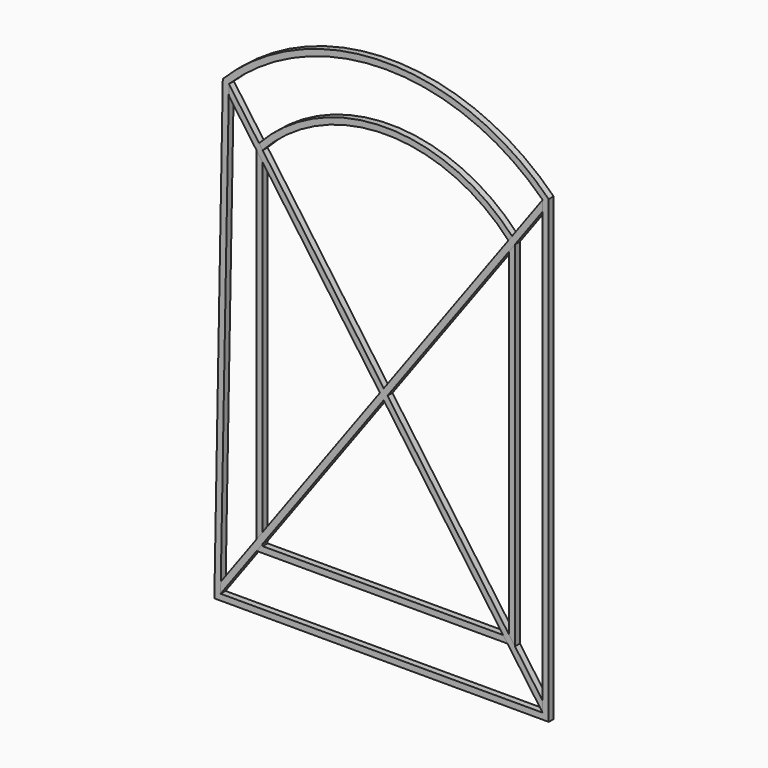
from build123d import *

# Parameters (mm, degrees)
F1_DEPTH = 25.4
F0_W     = 1019.175
F0_H     = 25.4
F3_DEPTH = 25.4


with BuildPart() as f1:
    # F0 (on Front) → F1 (new body)
    with BuildSketch(Plane.XZ):
        with BuildLine():
            Line((-969.7513144493, 228.8154065609), (-934.8263144493, 228.8154065609))
            Line((-934.8263144493, 228.8154065609), (414.5486855507, 228.8154065609))
            Line((414.5486855507, 228.8154065609), (414.5486855507, 2133.8154065609))
            ThreePointArc((414.5486855507, 2133.8154065609), (-260.1388144493, 2413.2154065609), (-934.8263144493, 2133.8154065609))
            Line((-934.8263144493, 2133.8154065609), (-969.7513144493, 228.8154065609))
        make_face()
        with BuildLine():
            Line((389.1486855507, 254.2154065609), (-909.4263144493, 254.2154065609))
            Line((-909.4263144493, 254.2154065609), (-943.8813795302, 254.2154065609))
            Line((-943.8813795302, 254.2154065609), (-909.4263144493, 2123.2085977754))
            ThreePointArc((-909.4263144493, 2123.2085977754), (-260.1388144493, 2387.8154065609), (389.1486855507, 2123.2085977754))
            Line((389.1486855507, 2123.2085977754), (389.1486855507, 254.2154065609))
        make_face(mode=Mode.SUBTRACT)
    extrude(amount=F1_DEPTH)


with BuildPart() as f1b:
    # F0 (on Front) → F1, piece 2 (new body)
    with BuildSketch(Plane.XZ):
        with BuildLine():
            Line((-795.1263144493, 1936.6474755105), (-795.1263144493, 458.6809445003))
            Line((-795.1263144493, 458.6809445003), (-769.7263144493, 458.6809445003))
            Line((-769.7263144493, 458.6809445003), (-769.7263144493, 484.0809445003))
            Line((-769.7263144493, 484.0809445003), (-769.7263144493, 1926.8568102577))
            ThreePointArc((-769.7263144493, 1926.8568102577), (-260.1388144493, 2150.756990214), (249.4486855507, 1926.8568102577))
            Line((249.4486855507, 1926.8568102577), (249.4486855507, 484.0809445003))
            Line((249.4486855507, 484.0809445003), (249.4486855507, 458.6809445003))
            Line((249.4486855507, 458.6809445003), (274.8486855507, 458.6809445003))
            Line((274.8486855507, 458.6809445003), (274.8486855507, 1936.6474755105))
            ThreePointArc((274.8486855507, 1936.6474755105), (-260.1388144493, 2176.156990214), (-795.1263144493, 1936.6474755105))
        make_face()
        with Locations((-260.1388144493, 471.3809445003)):
            Rectangle(F0_W, F0_H)
    extrude(amount=F1_DEPTH)


with BuildPart() as f3:
    # F2 (on Front) → F3 (new body)
    with BuildSketch(Plane.XZ):
        Polygon((-943.066681059, 298.4082093275), (-943.8813795302, 254.2154065609), (-268.7743580134, 1178.942433425), (-284.296025375, 1200.7585188345), align=None)
        Polygon((-284.296025375, 1200.7585188345), (-268.7743580134, 1178.942433425), (-252.9870573974, 1200.567069365), (-268.508724759, 1222.3831547745), align=None)
        Polygon((-252.9870573974, 1200.567069365), (-268.7743580134, 1178.942433425), (389.1486855507, 254.2154065609), (389.1486855507, 298.0294819858), align=None)
        Polygon((-268.508724759, 1222.3831547745), (-252.9870573974, 1200.567069365), (389.1486855507, 2080.1317272551), (389.1486855507, 2123.2085977754), align=None)
        Polygon((-909.4263144493, 2079.3945223506), (-284.296025375, 1200.7585188345), (-268.508724759, 1222.3831547745), (-909.4263144493, 2123.2085977754), align=None)
    extrude(amount=F3_DEPTH)


with BuildPart() as f1b_1:
    add(f1b.part)

    # F4: cut F3
    add(f3.part, mode=Mode.SUBTRACT)


solid = Compound([f1.part, f3.part, f1b_1.part])
